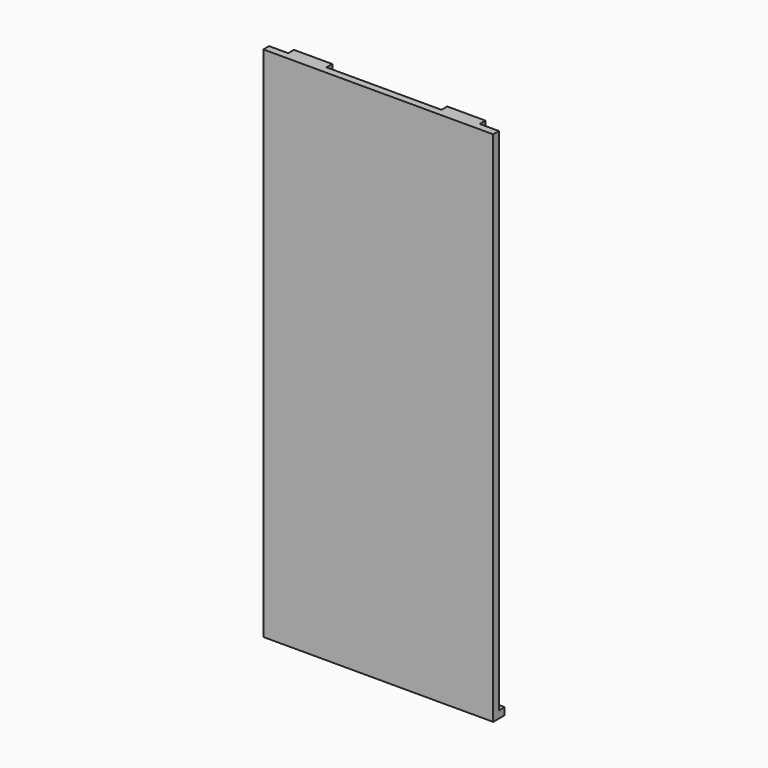
from build123d import *

# Parameters (mm, degrees)
F0_W     = 152.4
F0_H     = 342.9
F1_DEPTH = 4.7625
F2_W     = 25.4
F2_H     = 4.7625
F3_DEPTH = 9.525
F4_W     = 152.4
F4_H     = 4.7625
F5_DEPTH = 9.525


with BuildPart() as f1:
    # F0 (on Front) → F1 (new body)
    with BuildSketch(Plane.XZ):
        Rectangle(F0_W, F0_H)
    extrude(amount=F1_DEPTH)

    # F2 (on face) → F3 (join)
    with BuildSketch(Plane.XZ.offset(4.7625)):
        with Locations((-50.8, 169.06875)):
            Rectangle(F2_W, F2_H)
        with Locations((50.8, 169.06875)):
            Rectangle(F2_W, F2_H)
    extrude(amount=-F3_DEPTH)

    # F4 (on face) → F5 (join)
    with BuildSketch(Plane.XZ.offset(4.7625)):
        with Locations((0, -169.06875)):
            Rectangle(F4_W, F4_H)
    extrude(amount=-F5_DEPTH)


solid = f1.part
